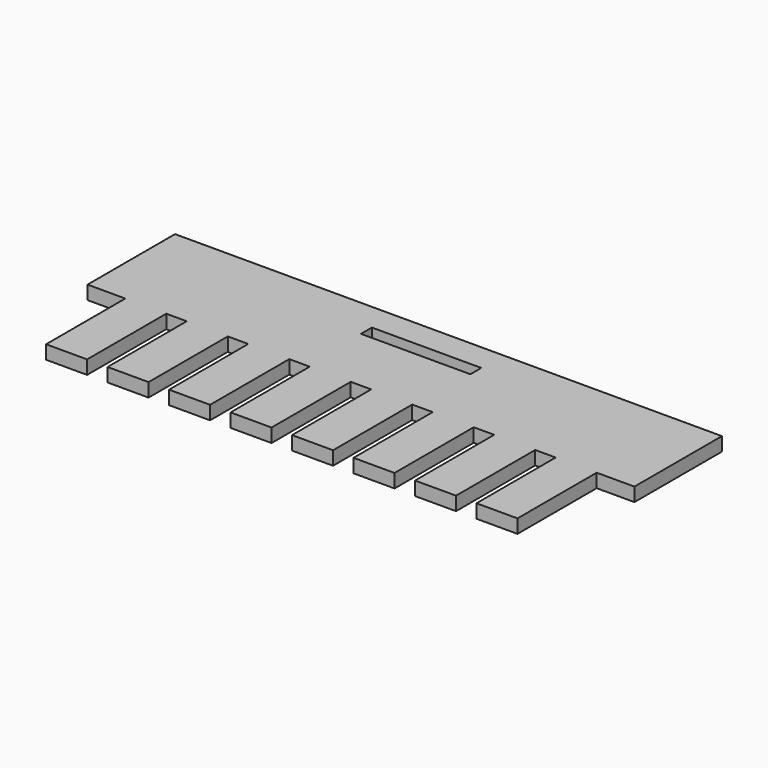
from build123d import *

# Parameters (mm, degrees)
F1_DEPTH = 1.5875
F2_W     = 12.7
F2_H     = 1.5875
F3_DEPTH = 1.5875


with BuildPart() as f1:
    # F0 (on Top) → F1 (new body)
    with BuildSketch(Plane.XY):
        Polygon((31.737301, 1.339281), (31.737301, 14.039281), (-31.762699, 14.039281), (-31.762699, 1.339281), (-27.381199, 1.339281), (-27.381199, -10.154219), (-22.618699, -10.154219), (-22.618699, 1.339281), (-20.241985, 1.339281), (-20.241985, -10.154219), (-15.479485, -10.154219), (-15.479485, 1.339281), (-13.10277, 1.339281), (-13.10277, -10.154219), (-8.34027, -10.154219), (-8.34027, 1.339281), (-5.963556, 1.339281), (-5.963556, -10.154219), (-1.201056, -10.154219), (-1.201056, 1.339281), (1.175658, 1.339281), (1.175658, -10.154219), (5.938158, -10.154219), (5.938158, 1.339281), (8.314873, 1.339281), (8.314873, -10.154219), (13.077373, -10.154219), (13.077373, 1.339281), (15.454087, 1.339281), (15.454087, -10.154219), (20.216587, -10.154219), (20.216587, 1.339281), (22.593301, 1.339281), (22.593301, -10.154219), (27.355801, -10.154219), (27.355801, 1.339281), align=None)
    extrude(amount=F1_DEPTH)

    # F2 (on face) → F3 (cut, through all)
    with BuildSketch(Plane(origin=(0, 0, 0), x_dir=(1, 0, 0), z_dir=(0, 0, -1))):
        with Locations((-0.012699, -10.070531)):
            Rectangle(F2_W, F2_H)
    extrude(amount=-F3_DEPTH, mode=Mode.SUBTRACT)


solid = f1.part
